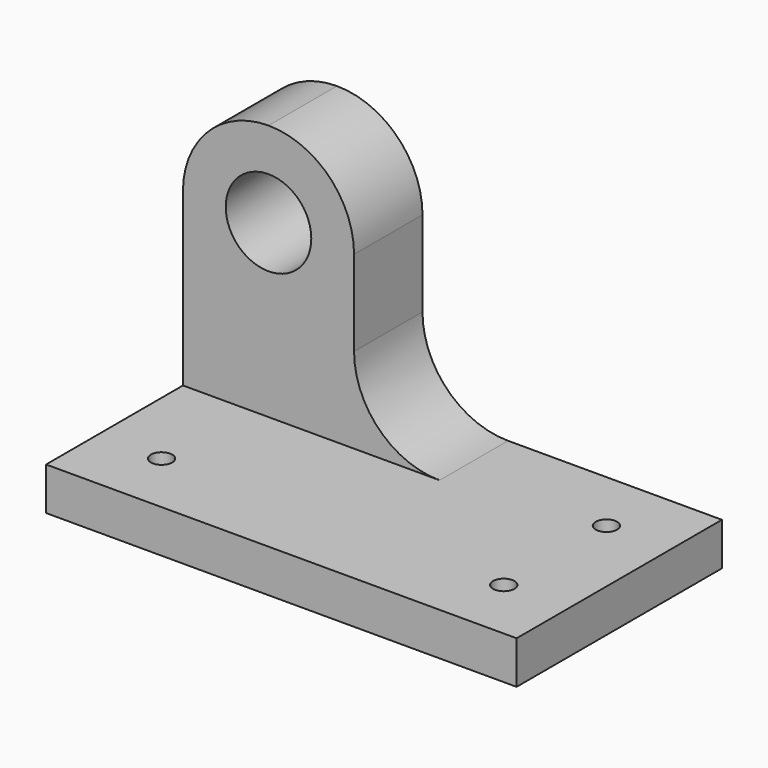
from build123d import *

# Parameters (mm, degrees)
F1_DEPTH  = 38.1
F2_W      = 25.4
F2_H      = 38.1
F3_DEPTH  = 25.4
F4_R      = 6.35
F5_DEPTH  = 12.7
F7_DEPTH  = 12.7
F8_W      = 12.7
F8_H      = 12.7
F9_DEPTH  = 12.7
F11_DEPTH = 12.7
F12_R     = 1.5875
F13_DEPTH = 6.35


with BuildPart() as f1:
    # F0 (on Front) → F1 (new body)
    with BuildSketch(Plane.XZ):
        Polygon((-17.457331, 44.45), (-42.857331, 44.45), (-42.857331, 0), (26.992669, 0), (26.992669, 6.35), (-17.457331, 6.35), align=None)
    extrude(amount=F1_DEPTH)

    # F2 (on face) → F3 (cut)
    with BuildSketch(Plane.XZ.offset(38.1)):
        with Locations((-30.157331, 25.4)):
            Rectangle(F2_W, F2_H)
    extrude(amount=-F3_DEPTH, mode=Mode.SUBTRACT)

    # F4 (on face) → F5 (cut)
    with BuildSketch(Plane.XZ.offset(12.7)):
        with Locations((-30.157331, 31.75)):
            Circle(F4_R)
    extrude(amount=-F5_DEPTH, mode=Mode.SUBTRACT)

    # F6 (on face) → F7 (cut)
    with BuildSketch(Plane.XZ.offset(12.7)):
        with BuildLine():
            ThreePointArc((-42.857331, 31.75), (-39.137587, 40.730256), (-30.157331, 44.45))
            Line((-30.157331, 44.45), (-42.857331, 44.45))
            Line((-42.857331, 44.45), (-42.857331, 31.75))
        make_face()
        with BuildLine():
            Line((-17.457331, 44.45), (-30.157331, 44.45))
            ThreePointArc((-30.157331, 44.45), (-21.177075, 40.730256), (-17.457331, 31.75))
            Line((-17.457331, 31.75), (-17.457331, 44.45))
        make_face()
    extrude(amount=-F7_DEPTH, mode=Mode.SUBTRACT)

    # F8 (on face) → F9 (join)
    with BuildSketch(Plane.XZ.offset(12.7)):
        with Locations((-11.107331, 12.7)):
            Rectangle(F8_W, F8_H)
    extrude(amount=-F9_DEPTH)

    # F10 (on face) → F11 (cut)
    with BuildSketch(Plane.XZ.offset(12.7)):
        with BuildLine():
            Line((-4.757331, 19.05), (-17.457331, 19.05))
            ThreePointArc((-17.457331, 19.05), (-13.737587, 10.069744), (-4.757331, 6.35))
            Line((-4.757331, 6.35), (-4.757331, 19.05))
        make_face()
    extrude(amount=-F11_DEPTH, mode=Mode.SUBTRACT)

    # F12 (on face) → F13 (cut)
    with BuildSketch(Plane.XY.offset(6.35)):
        with Locations((-33.332331, -28.575)):
            Circle(F12_R)
        with Locations((17.467669, -28.575)):
            Circle(F12_R)
        with Locations((17.467669, -9.525)):
            Circle(F12_R)
    extrude(amount=-F13_DEPTH, mode=Mode.SUBTRACT)


solid = f1.part
